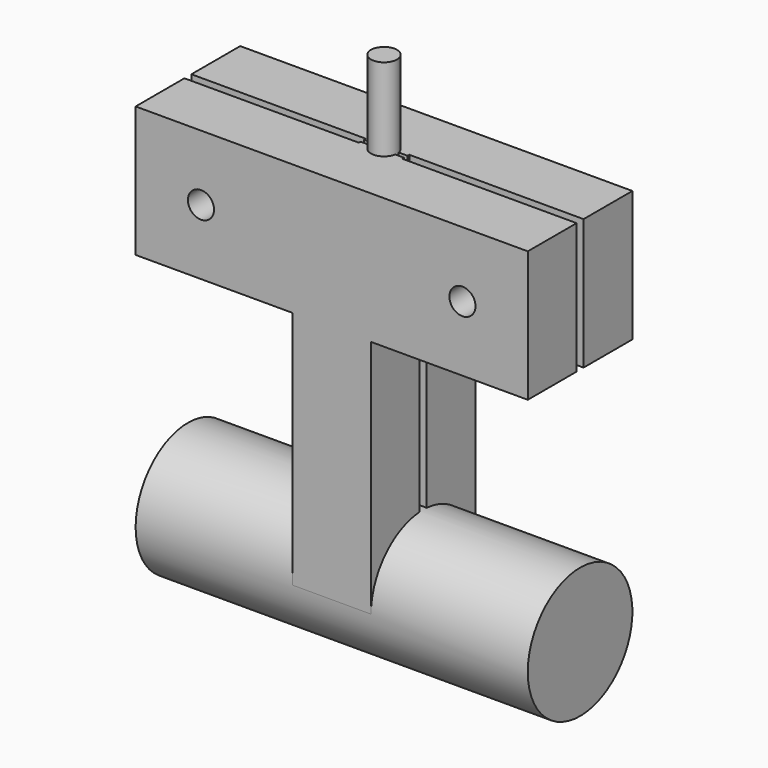
from build123d import *

# Parameters (mm, degrees)
CYLINDER001_R     = 3
CYLINDER001_DEPTH = 120
CYLINDER_R        = 3
CYLINDER_DEPTH    = 40
CYLINDER002_R     = 3
CYLINDER002_DEPTH = 40
BOX003_W          = 90
BOX003_H          = 2
BOX003_DEPTH      = 120
BOX004_W          = 90
BOX004_H          = 2
BOX004_DEPTH      = 120
BOX002_W          = 90
BOX002_H          = 1
BOX002_DEPTH      = 120
BOX_W             = 90
BOX_H             = 30
BOX_DEPTH         = 30
CYLINDER005_R     = 6
CYLINDER005_DEPTH = 120
CYLINDER004_R     = 15
CYLINDER004_DEPTH = 90
BOX005_W          = 90
BOX005_H          = 2
BOX005_DEPTH      = 120
BOX001_W          = 18
BOX001_H          = 30
BOX001_DEPTH      = 65
CYLINDER007_R     = 3
CYLINDER007_DEPTH = 120
CYLINDER006_R     = 3
CYLINDER006_DEPTH = 40
CYLINDER008_R     = 3
CYLINDER008_DEPTH = 40
BOX009_W          = 90
BOX009_H          = 2
BOX009_DEPTH      = 120
BOX010_W          = 90
BOX010_H          = 2
BOX010_DEPTH      = 120
BOX008_W          = 90
BOX008_H          = 1
BOX008_DEPTH      = 120
BOX006_W          = 90
BOX006_H          = 30
BOX006_DEPTH      = 30
CYLINDER010_R     = 6
CYLINDER010_DEPTH = 120
CYLINDER009_R     = 15
CYLINDER009_DEPTH = 90
BOX011_W          = 90
BOX011_H          = 2
BOX011_DEPTH      = 120
BOX007_W          = 18
BOX007_H          = 30
BOX007_DEPTH      = 65


with BuildPart() as cylinder001:
    # Cylinder001 → Cylinder001 (new body)
    with BuildSketch(Plane(origin=(45, 15, -71), x_dir=(1, 0, 0), z_dir=(0, 0, 1))):
        Circle(CYLINDER001_R)
    extrude(amount=CYLINDER001_DEPTH)


with BuildPart() as cylinder:
    # Cylinder → Cylinder (new body)
    with BuildSketch(Plane(origin=(15, -3, 15), x_dir=(1, 0, 0), z_dir=(0, 1, 0))):
        Circle(CYLINDER_R)
    extrude(amount=CYLINDER_DEPTH)


with BuildPart() as cylinder002:
    # Cylinder002 → Cylinder002 (new body)
    with BuildSketch(Plane(origin=(75, -3, 15), x_dir=(1, 0, 0), z_dir=(0, 1, 0))):
        Circle(CYLINDER002_R)
    extrude(amount=CYLINDER002_DEPTH)


with BuildPart() as cube003:
    # Box003 → Box003 (new body)
    with BuildSketch(Plane(origin=(50, 14, -88), x_dir=(1, 0, 0), z_dir=(0, 0, 1))):
        with Locations((45, 1)):
            Rectangle(BOX003_W, BOX003_H)
    extrude(amount=BOX003_DEPTH)


with BuildPart() as cube004:
    # Box004 → Box004 (new body)
    with BuildSketch(Plane(origin=(-50, 14, -88), x_dir=(1, 0, 0), z_dir=(0, 0, 1))):
        with Locations((45, 1)):
            Rectangle(BOX004_W, BOX004_H)
    extrude(amount=BOX004_DEPTH)


with BuildPart() as cube002:
    # Box002 → Box002 (new body)
    with BuildSketch(Plane(origin=(0, 14.5, -88), x_dir=(1, 0, 0), z_dir=(0, 0, 1))):
        with Locations((45, 0.5)):
            Rectangle(BOX002_W, BOX002_H)
    extrude(amount=BOX002_DEPTH)


with BuildPart() as cut007:
    # Box → Box (new body)
    with BuildSketch(Plane.XY):
        with Locations((45, 15)):
            Rectangle(BOX_W, BOX_H)
    extrude(amount=BOX_DEPTH)

    # Cut: cut Cube002
    add(cube002.part, mode=Mode.SUBTRACT)

    # Cut001: cut Cube004
    add(cube004.part, mode=Mode.SUBTRACT)

    # Cut002: cut Cube003
    add(cube003.part, mode=Mode.SUBTRACT)

    # Cut006: cut Cylinder002
    add(cylinder002.part, mode=Mode.SUBTRACT)

    # Cut007: cut Cylinder
    add(cylinder.part, mode=Mode.SUBTRACT)


with BuildPart() as cone:
    # Cone → Cone (revolve)
    with BuildSketch(Plane(origin=(45, 15, 10), x_dir=(-1, 0, 0), z_dir=(0, -1, 0))):
        Polygon((0, 0), (3, 0), (6, 20), (0, 20), align=None)
    revolve(axis=Axis((45, 15, 10), (0, 0, -1)))


with BuildPart() as cylinder005:
    # Cylinder005 → Cylinder005 (new body)
    with BuildSketch(Plane(origin=(45, 15, -130), x_dir=(1, 0, 0), z_dir=(0, 0, 1))):
        Circle(CYLINDER005_R)
    extrude(amount=CYLINDER005_DEPTH)


with BuildPart() as cylinder004:
    # Cylinder004 → Cylinder004 (new body)
    with BuildSketch(Plane(origin=(0, 15, -55), x_dir=(0, -1, 0), z_dir=(1, 0, 0))):
        Circle(CYLINDER004_R)
    extrude(amount=CYLINDER004_DEPTH)


with BuildPart() as cube005:
    # Box005 → Box005 (new body)
    with BuildSketch(Plane(origin=(0, 14, -88), x_dir=(1, 0, 0), z_dir=(0, 0, 1))):
        with Locations((45, 1)):
            Rectangle(BOX005_W, BOX005_H)
    extrude(amount=BOX005_DEPTH)


with BuildPart() as fusion001:
    # Box001 → Box001 (new body)
    with BuildSketch(Plane(origin=(36, 0, -55), x_dir=(1, 0, 0), z_dir=(0, 0, 1))):
        with Locations((9, 15)):
            Rectangle(BOX001_W, BOX001_H)
    extrude(amount=BOX001_DEPTH)

    # Cut003: cut Cube005
    add(cube005.part, mode=Mode.SUBTRACT)

    # Fusion: union Cylinder004
    add(cylinder004.part)

    # Cut004: cut Cylinder005
    add(cylinder005.part, mode=Mode.SUBTRACT)

    # Cut005: cut Cone
    add(cone.part, mode=Mode.SUBTRACT)

    # Fusion001: union Cut007
    add(cut007.part)


with BuildPart() as cylinder007:
    # Cylinder007 → Cylinder007 (new body)
    with BuildSketch(Plane(origin=(45, 15, -71), x_dir=(1, 0, 0), z_dir=(0, 0, 1))):
        Circle(CYLINDER007_R)
    extrude(amount=CYLINDER007_DEPTH)


with BuildPart() as cylinder006:
    # Cylinder006 → Cylinder006 (new body)
    with BuildSketch(Plane(origin=(15, -3, 15), x_dir=(1, 0, 0), z_dir=(0, 1, 0))):
        Circle(CYLINDER006_R)
    extrude(amount=CYLINDER006_DEPTH)


with BuildPart() as cylinder008:
    # Cylinder008 → Cylinder008 (new body)
    with BuildSketch(Plane(origin=(75, -3, 15), x_dir=(1, 0, 0), z_dir=(0, 1, 0))):
        Circle(CYLINDER008_R)
    extrude(amount=CYLINDER008_DEPTH)


with BuildPart() as cube009:
    # Box009 → Box009 (new body)
    with BuildSketch(Plane(origin=(50, 14, -88), x_dir=(1, 0, 0), z_dir=(0, 0, 1))):
        with Locations((45, 1)):
            Rectangle(BOX009_W, BOX009_H)
    extrude(amount=BOX009_DEPTH)


with BuildPart() as cube010:
    # Box010 → Box010 (new body)
    with BuildSketch(Plane(origin=(-50, 14, -88), x_dir=(1, 0, 0), z_dir=(0, 0, 1))):
        with Locations((45, 1)):
            Rectangle(BOX010_W, BOX010_H)
    extrude(amount=BOX010_DEPTH)


with BuildPart() as cube008:
    # Box008 → Box008 (new body)
    with BuildSketch(Plane(origin=(0, 14.5, -88), x_dir=(1, 0, 0), z_dir=(0, 0, 1))):
        with Locations((45, 0.5)):
            Rectangle(BOX008_W, BOX008_H)
    extrude(amount=BOX008_DEPTH)


with BuildPart() as cut016:
    # Box006 → Box006 (new body)
    with BuildSketch(Plane.XY):
        with Locations((45, 15)):
            Rectangle(BOX006_W, BOX006_H)
    extrude(amount=BOX006_DEPTH)

    # Cut009: cut Cube008
    add(cube008.part, mode=Mode.SUBTRACT)

    # Cut010: cut Cube010
    add(cube010.part, mode=Mode.SUBTRACT)

    # Cut011: cut Cube009
    add(cube009.part, mode=Mode.SUBTRACT)

    # Cut015: cut Cylinder008
    add(cylinder008.part, mode=Mode.SUBTRACT)

    # Cut016: cut Cylinder006
    add(cylinder006.part, mode=Mode.SUBTRACT)


with BuildPart() as cone001:
    # Cone001 → Cone001 (revolve)
    with BuildSketch(Plane(origin=(45, 15, 10), x_dir=(-1, 0, 0), z_dir=(0, -1, 0))):
        Polygon((0, 0), (3, 0), (6, 20), (0, 20), align=None)
    revolve(axis=Axis((45, 15, 10), (0, 0, -1)))


with BuildPart() as cylinder010:
    # Cylinder010 → Cylinder010 (new body)
    with BuildSketch(Plane(origin=(45, 15, -130), x_dir=(1, 0, 0), z_dir=(0, 0, 1))):
        Circle(CYLINDER010_R)
    extrude(amount=CYLINDER010_DEPTH)


with BuildPart() as cylinder009:
    # Cylinder009 → Cylinder009 (new body)
    with BuildSketch(Plane(origin=(0, 15, -55), x_dir=(0, -1, 0), z_dir=(1, 0, 0))):
        Circle(CYLINDER009_R)
    extrude(amount=CYLINDER009_DEPTH)


with BuildPart() as cube011:
    # Box011 → Box011 (new body)
    with BuildSketch(Plane(origin=(0, 14, -88), x_dir=(1, 0, 0), z_dir=(0, 0, 1))):
        with Locations((45, 1)):
            Rectangle(BOX011_W, BOX011_H)
    extrude(amount=BOX011_DEPTH)


with BuildPart() as cut017:
    # Box007 → Box007 (new body)
    with BuildSketch(Plane(origin=(36, 0, -55), x_dir=(1, 0, 0), z_dir=(0, 0, 1))):
        with Locations((9, 15)):
            Rectangle(BOX007_W, BOX007_H)
    extrude(amount=BOX007_DEPTH)

    # Cut012: cut Cube011
    add(cube011.part, mode=Mode.SUBTRACT)

    # Fusion002: union Cylinder009
    add(cylinder009.part)

    # Cut013: cut Cylinder010
    add(cylinder010.part, mode=Mode.SUBTRACT)

    # Cut014: cut Cone001
    add(cone001.part, mode=Mode.SUBTRACT)

    # Fusion003: union Cut016
    add(cut016.part)

    # Cut017: cut Cylinder007
    add(cylinder007.part, mode=Mode.SUBTRACT)


solid = Compound([cylinder001.part, fusion001.part, cut017.part])
